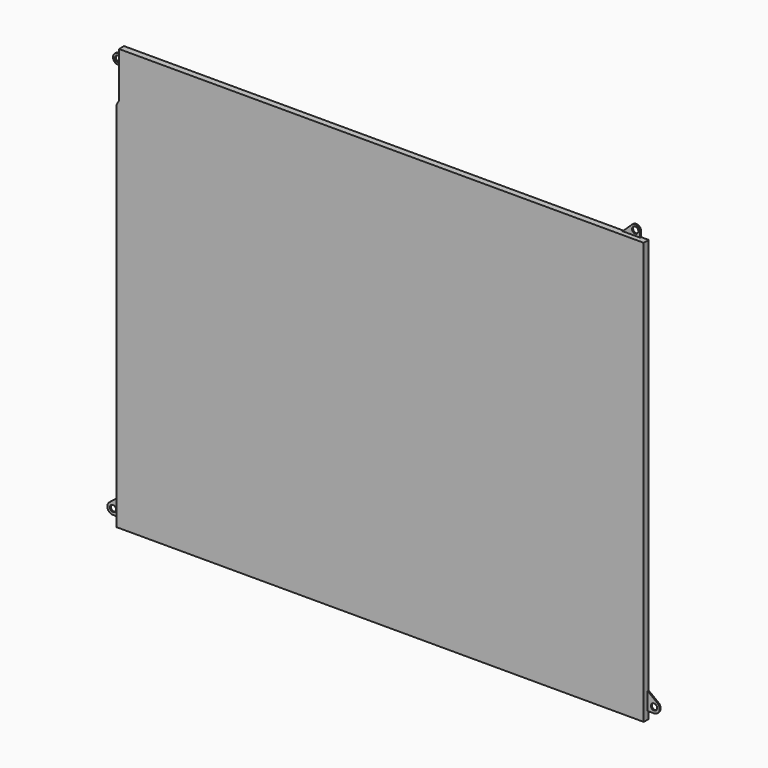
from build123d import *

# Parameters (mm, degrees)
F1_DEPTH = 2.5
F0_R     = 1.25
F2_DEPTH = 0.5
F3_W     = 200
F3_H     = 151
F4_DEPTH = 0.1


with BuildPart() as f1:
    # F0 (on Front) → F1 (new body)
    with BuildSketch(Plane.XZ):
        Polygon((-105, -83.83553), (105, -83.83553), (105, -80.83553), (105, -73.83553), (105, 84.16447), (102, 84.16447), (95, 84.16447), (-104, 84.16447), (-104, 82.16447), (-104, 77.16447), (-104, 66.16447), (-105, 64.16447), (-105, -73.83553), (-105, -81.33553), align=None)
    extrude(amount=F1_DEPTH)

    # F0 (on Front) → F2 (join)
    with BuildSketch(Plane.XZ):
        with BuildLine():
            Line((95, 84.16447), (102, 84.16447))
            Line((102, 84.16447), (102, 86.16447))
            ThreePointArc((102, 86.16447), (100.787839, 88.00276), (98.62069, 87.612746))
            Line((98.62069, 87.612746), (95, 84.16447))
        make_face()
        with Locations((100, 86.16447)):
            Circle(F0_R, mode=Mode.SUBTRACT)
        with BuildLine():
            Line((-106, 77.16447), (-104, 77.16447))
            Line((-104, 77.16447), (-104, 82.16447))
            Line((-104, 82.16447), (-106.769231, 81.010624))
            ThreePointArc((-106.769231, 81.010624), (-107.961161, 78.772238), (-106, 77.16447))
        make_face()
        with Locations((-106, 79.16447)):
            Circle(F0_R, mode=Mode.SUBTRACT)
        with BuildLine():
            Line((-108.040458, -81.33553), (-105, -81.33553))
            Line((-105, -81.33553), (-105, -73.83553))
            Line((-105, -73.83553), (-109.39797, -77.32289))
            ThreePointArc((-109.39797, -77.32289), (-110.131335, -79.806943), (-108.040458, -81.33553))
        make_face()
        with Locations((-108, -79.085893)):
            Circle(F0_R, mode=Mode.SUBTRACT)
        with BuildLine():
            Line((105, -73.83553), (105, -80.83553))
            Line((105, -80.83553), (107.329069, -80.83553))
            ThreePointArc((107.329069, -80.83553), (109.601422, -79.396099), (108.870329, -76.807459))
            Line((108.870329, -76.807459), (105, -73.83553))
        make_face()
        with Locations((107.5, -78.592032)):
            Circle(F0_R, mode=Mode.SUBTRACT)
    extrude(amount=F2_DEPTH)

    # F3 (on Front) → F4 (join)
    with BuildSketch(Plane.XZ):
        with Locations((-1, 0.66447)):
            Rectangle(F3_W, F3_H)
    extrude(amount=F4_DEPTH)


solid = f1.part
